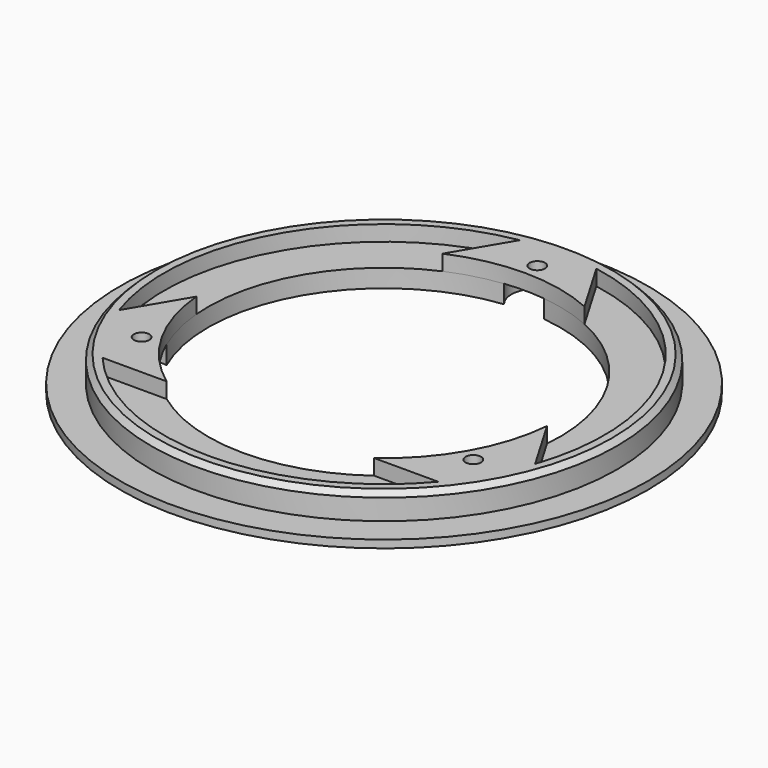
from build123d import *

# Parameters (mm, degrees)
SKETCH_R          = 51
SKETCH_R_2        = 34
PAD_DEPTH         = 1.5
SKETCH001_R       = 45
SKETCH001_R_2     = 42.5
PAD001_DEPTH      = 5
SKETCH002_R       = 43
SKETCH002_R_2     = 34
PAD002_DEPTH      = 2
SKETCH004_R       = 5
POCKET001_DEPTH   = 3.5
PAD003_DEPTH      = 3
SKETCH003_R       = 1.5
POCKET_DEPTH      = 3.501
POCKET_DEPTH_BACK = -3.001
CHAMFER_SIZE      = 1


with BuildPart() as part:
    # Sketch → Pad (new body)
    with BuildSketch(Plane.XY):
        Circle(SKETCH_R)
        Circle(SKETCH_R_2, mode=Mode.SUBTRACT)
    extrude(amount=PAD_DEPTH)

    # Sketch001 (on Face4 of Pad) → Pad001 (join)
    with BuildSketch(Plane.XY.offset(1.5)):
        Circle(SKETCH001_R)
        Circle(SKETCH001_R_2, mode=Mode.SUBTRACT)
    extrude(amount=PAD001_DEPTH)

    # Sketch002 (on Face6 of Pad001) → Pad002 (join)
    with BuildSketch(Plane.XY.offset(1.5)):
        Circle(SKETCH002_R)
        Circle(SKETCH002_R_2, mode=Mode.SUBTRACT)
    extrude(amount=PAD002_DEPTH)

    # Sketch004 → Pocket001 (cut)
    with BuildSketch(Plane(origin=(0, 0, 0), x_dir=(1, 0, 0), z_dir=(0, 0, -1))):
        with Locations((32.04294, 18.5)):
            Circle(SKETCH004_R)
        with Locations((-32.04294, 18.5)):
            Circle(SKETCH004_R)
        with Locations((0, -37)):
            Circle(SKETCH004_R)
    extrude(amount=-POCKET001_DEPTH, mode=Mode.SUBTRACT)

    # Sketch005 (on Face19 of Pocket001) → Pad003 (join)
    with BuildSketch(Plane.XY.offset(3.5)):
        with BuildLine():
            ThreePointArc((13.890561, 31.033084), (0.148301, 33.999677), (-13.619315, 31.153078))
            Line((-7.268789, 41.873795), (-13.619315, 31.153078))
            ThreePointArc((7.554436, 41.823205), (0.145046, 42.499752), (-7.268789, 41.873795))
            Line((13.890561, 31.033084), (7.554436, 41.823205))
        make_face()
        with BuildLine():
            ThreePointArc((-40.215676, -13.745888), (-36.969341, -20.96468), (-32.440728, -27.456314))
            Line((-32.440728, -27.456314), (-20.053698, -27.456314))
            ThreePointArc((-33.865149, -3.025171), (-29.597816, -16.732283), (-20.053698, -27.456314))
            Line((-33.865149, -3.025171), (-40.215676, -13.745888))
        make_face()
        with BuildLine():
            Line((40.204551, -13.778393), (33.868425, -2.988272))
            ThreePointArc((20.053698, -27.456314), (29.606927, -16.716156), (33.868425, -2.988272))
            Line((20.053698, -27.456314), (32.440728, -27.456314))
            ThreePointArc((32.440728, -27.456314), (36.960864, -20.979621), (40.204551, -13.778393))
        make_face()
    extrude(amount=PAD003_DEPTH)

    # Sketch003 (on Face8 of Pad002) → Pocket (cut, two sides)
    with BuildSketch(Plane.XY.offset(3.5)) as pocket_sk:
        with Locations((0, 37)):
            Circle(SKETCH003_R)
        with Locations((32.04294, -18.5)):
            Circle(SKETCH003_R)
        with Locations((-32.04294, -18.5)):
            Circle(SKETCH003_R)
    extrude(amount=-POCKET_DEPTH, mode=Mode.SUBTRACT)
    extrude(pocket_sk.sketch, amount=-POCKET_DEPTH_BACK, mode=Mode.SUBTRACT)

    # Chamfer
    chamfer_edges = [part.edges().sort_by_distance(p)[0] for p in [
        (-45, 0, 6.5),
    ]]
    chamfer(chamfer_edges, length=CHAMFER_SIZE)


solid = part.part
